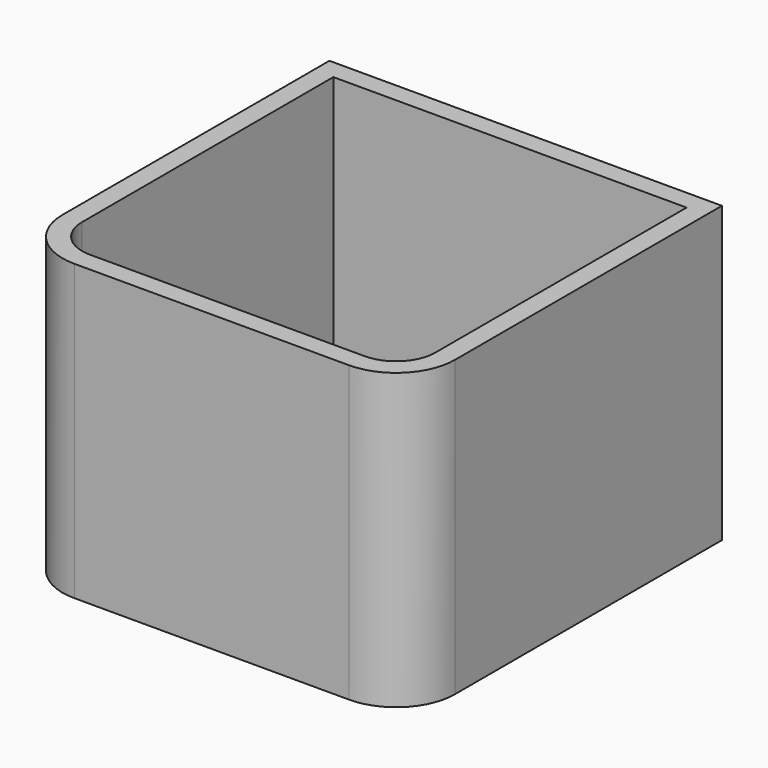
from build123d import *

# Parameters (mm, degrees)
F0_W     = 50.8
F0_H     = 50.8
F1_DEPTH = 38.1
F2_R     = 7.62
F3_T     = -2.54


with BuildPart() as f1:
    # F0 (on Top) → F1 (new body)
    with BuildSketch(Plane.XY):
        with Locations((25.4, -25.4)):
            Rectangle(F0_W, F0_H)
    extrude(amount=F1_DEPTH)

    # F2
    f2_edges = [f1.edges().sort_by_distance(p)[0] for p in [
        (50.8, -50.8, 19.05),
        (0, -50.8, 19.05),
    ]]
    fillet(f2_edges, radius=F2_R)

    # F3
    f3_openings = [f1.faces().sort_by_distance(p)[0] for p in [
        (25.4, -25.168915, 38.1),
    ]]
    offset(amount=F3_T, openings=f3_openings)


solid = f1.part
